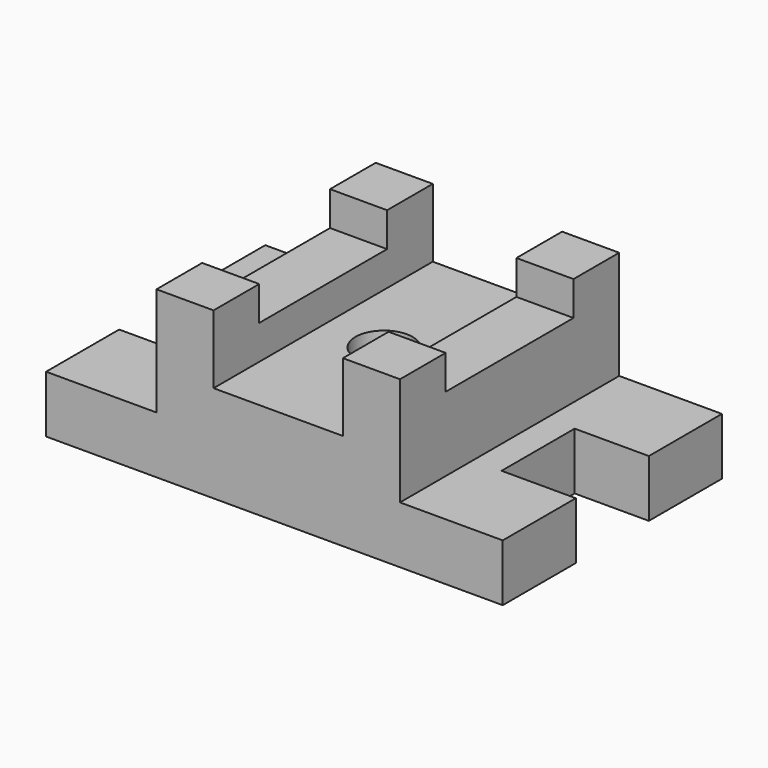
from build123d import *

# Parameters (mm, degrees)
F1_DEPTH = 31.75
F0_R     = 15.875
F2_DEPTH = 53.975
F0_W     = 31.75
F0_H     = 31.75
F3_DEPTH = 92.075
F0_H_2   = 88.9
F4_DEPTH = 73.025


with BuildPart() as f1:
    # F0 (on Top) → F1 (new body)
    with BuildSketch(Plane.XY):
        Polygon((-89.706793, 76.2), (-151.118087, 76.2), (-151.118087, 25.4), (-109.843087, 25.4), (-109.843087, -25.4), (-151.118087, -25.4), (-151.118087, -76.2), (-89.706793, -76.2), (-89.706793, -44.45), (-89.706793, 44.45), align=None)
        Polygon((102.881913, 76.2), (45.731913, 76.2), (45.731913, 44.45), (45.731913, -44.45), (45.731913, -76.2), (102.881913, -76.2), (102.881913, -25.4), (61.606913, -25.4), (61.606913, 25.4), (102.881913, 25.4), align=None)
    extrude(amount=F1_DEPTH)



with BuildPart() as f2:
    # F0 (on Top) → F2 (new body)
    with BuildSketch(Plane.XY):
        Polygon((13.981913, 76.2), (-57.956793, 76.2), (-57.956793, 44.45), (-57.956793, -44.45), (-57.956793, -76.2), (13.981913, -76.2), (13.981913, -44.45), (13.981913, 44.45), align=None)
        with Locations((-24.118087, 0)):
            Circle(F0_R, mode=Mode.SUBTRACT)
    extrude(amount=F2_DEPTH)


with BuildPart() as f1_1:
    add(f1.part)

    add(f2.part)  # F3 merges F2
    # F0 (on Top) → F3 (join)
    with BuildSketch(Plane.XY):
        with Locations((-73.831793, 60.325)):
            Rectangle(F0_W, F0_H)
        with Locations((-73.831793, -60.325)):
            Rectangle(F0_W, F0_H)
        with Locations((29.856913, -60.325)):
            Rectangle(F0_W, F0_H)
        with Locations((29.856913, 60.325)):
            Rectangle(F0_W, F0_H)
    extrude(amount=F3_DEPTH)

    # F0 (on Top) → F4 (join)
    with BuildSketch(Plane.XY):
        with Locations((-73.831793, 0)):
            Rectangle(F0_W, F0_H_2)
        with Locations((29.856913, 0)):
            Rectangle(F0_W, F0_H_2)
    extrude(amount=F4_DEPTH)


solid = f1_1.part
